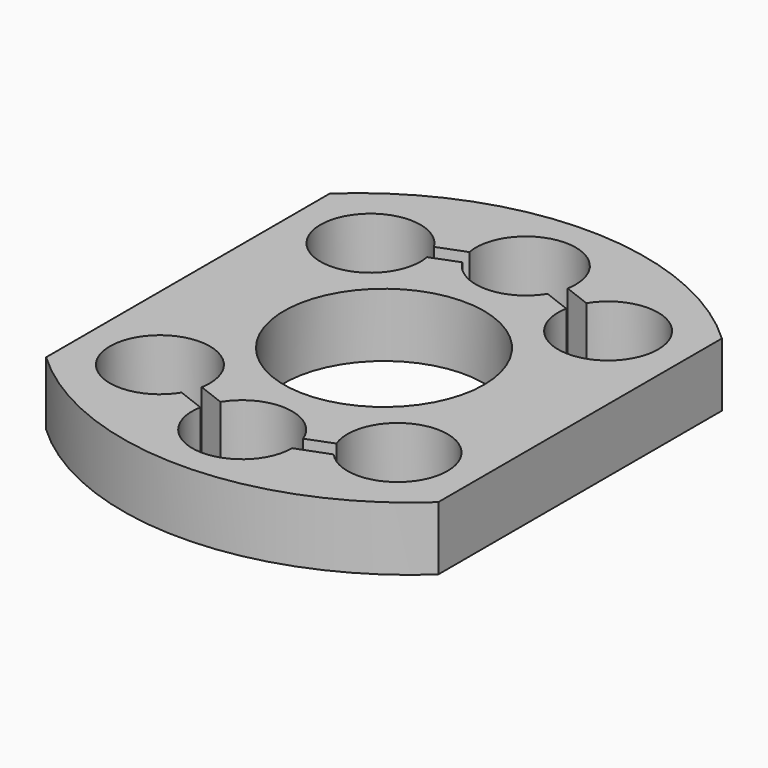
from build123d import *

# Parameters (mm, degrees)
F0_R     = 11
F1_DEPTH = 7


with BuildPart() as f1:
    # F0 (on Top) → F1 (new body)
    with BuildSketch(Plane.XY):
        with BuildLine():
            ThreePointArc((21.529075, 19.597523), (-0.037789, 28.097523), (-21.604652, 19.597523))
            Line((-21.604652, 19.597523), (-21.604652, -19.402477))
            ThreePointArc((-21.604652, -19.402477), (-0.037789, -27.902477), (21.529075, -19.402477))
            Line((21.529075, -19.402477), (21.529075, 19.597523))
        make_face()
        with BuildLine():
            ThreePointArc((-8.415779, -17.251634), (-18.397988, -12.883317), (-7.604652, -14.376836))
            ThreePointArc((-7.604652, -14.376836), (-7.627996, -14.883036), (-7.69783, -15.384939))
            Line((-7.69783, -15.384939), (-4.726662, -16.527678))
            ThreePointArc((-4.726662, -16.527678), (0.464308, -13.925443), (5.095622, -17.428118))
            Line((5.095622, -17.428118), (7.895665, -16.351195))
            ThreePointArc((7.895665, -16.351195), (12.025023, -8.969259), (18.529075, -14.376836))
            ThreePointArc((18.529075, -14.376836), (15.016261, -19.505295), (8.965041, -18.082727))
            Line((8.965041, -18.082727), (5.462211, -19.402477))
            ThreePointArc((5.462211, -19.402477), (-0.543989, -24.879133), (-5.444611, -18.394373))
            Line((-5.444611, -18.394373), (-8.415779, -17.251634))
        make_face(mode=Mode.SUBTRACT)
        with Locations((-0.037789, 0.097523)):
            Circle(F0_R, mode=Mode.SUBTRACT)
        with BuildLine():
            ThreePointArc((8.340202, 17.446681), (14.522594, 19.865218), (18.529075, 14.571882))
            ThreePointArc((18.529075, 14.571882), (12.522875, 9.095226), (7.622253, 15.579986))
            Line((7.622253, 15.579986), (4.651085, 16.722725))
            ThreePointArc((4.651085, 16.722725), (-0.037789, 14.097523), (-4.726662, 16.722725))
            Line((-4.726662, 16.722725), (-7.69783, 15.579986))
            ThreePointArc((-7.69783, 15.579986), (-7.627996, 15.078083), (-7.604652, 14.571882))
            ThreePointArc((-7.604652, 14.571882), (-18.397988, 13.078364), (-8.415779, 17.446681))
            Line((-8.415779, 17.446681), (-5.444611, 18.58942))
            ThreePointArc((-5.444611, 18.58942), (-0.543989, 25.074179), (5.462211, 19.597523))
            ThreePointArc((5.462211, 19.597523), (5.438867, 19.091323), (5.369034, 18.58942))
            Line((5.369034, 18.58942), (8.340202, 17.446681))
        make_face(mode=Mode.SUBTRACT)
    extrude(amount=F1_DEPTH)


solid = f1.part
